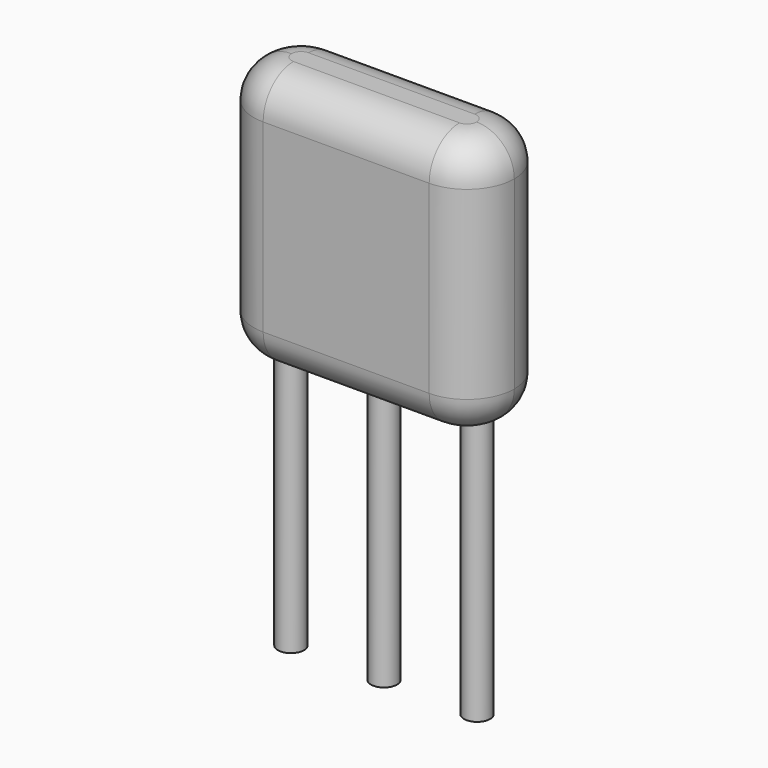
from build123d import *

# Parameters (mm, degrees)
SKETCH_R     = 0.35
PAD_DEPTH    = 8
PAD002_DEPTH = 7
FILLET_R     = 1.016
FILLET001_R  = 1.016


with BuildPart() as pad:
    # Sketch → Pad (new body)
    with BuildSketch(Plane.XY.offset(4)):
        Circle(SKETCH_R)
        with Locations((5, 0)):
            Circle(SKETCH_R)
        with Locations((2.5, 0)):
            Circle(SKETCH_R)
    extrude(amount=-PAD_DEPTH)


with BuildPart() as fillet001:
    # Sketch003 → Pad002 (new body)
    with BuildSketch(Plane.XY.offset(3)):
        with BuildLine():
            Line((0.27, 1.27), (4.73, 1.27))
            ThreePointArc((6, 0), (5.628026, 0.898026), (4.73, 1.27))
            ThreePointArc((4.73, -1.27), (5.628026, -0.898026), (6, 0))
            Line((4.73, -1.27), (0.27, -1.27))
            ThreePointArc((-1, 0), (-0.628026, -0.898026), (0.27, -1.27))
            ThreePointArc((0.27, 1.27), (-0.628026, 0.898026), (-1, 0))
        make_face()
    extrude(amount=PAD002_DEPTH)

    # Fillet
    fillet_edges = [fillet001.edges().sort_by_distance(p)[0] for p in [
        (2.5, 1.27, 10),
        (-0.628026, 0.898026, 10),
        (-0.628026, -0.898026, 10),
        (2.5, -1.27, 10),
        (5.628026, -0.898026, 10),
        (5.628026, 0.898026, 10),
    ]]
    fillet(fillet_edges, radius=FILLET_R)

    # Fillet001
    fillet001_edges = [fillet001.edges().sort_by_distance(p)[0] for p in [
        (5.628026, -0.898026, 3),
        (5.628026, 0.898026, 3),
        (2.5, 1.27, 3),
        (2.5, -1.27, 3),
        (-0.628026, -0.898026, 3),
        (-0.628026, 0.898026, 3),
    ]]
    fillet(fillet001_edges, radius=FILLET001_R)


solid = Compound([pad.part, fillet001.part])
